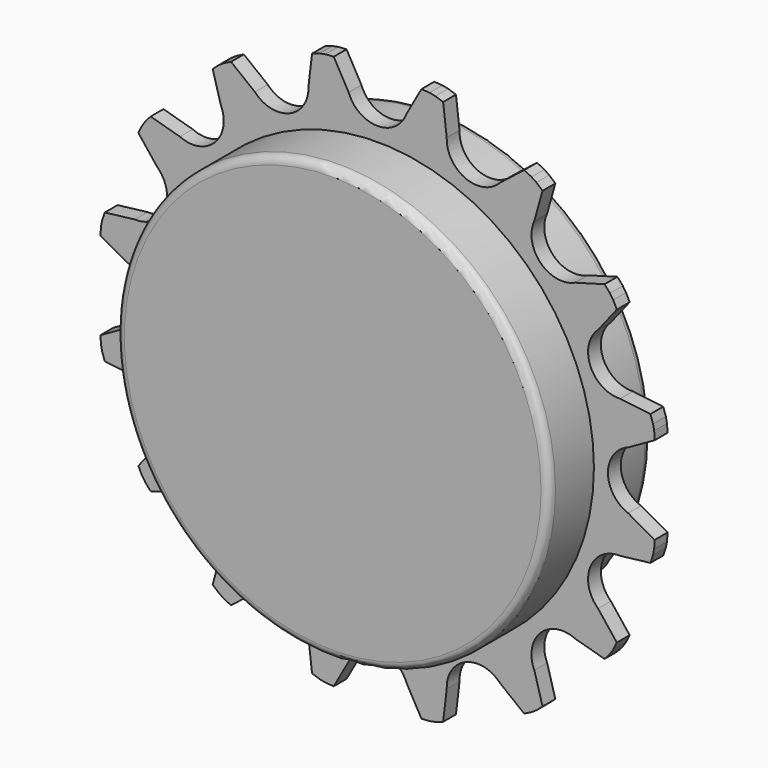
from build123d import *

# Parameters (mm, degrees)
F0_R     = 27
F1_DEPTH = 1
F2_DEPTH = 8
F3_R     = 1


with BuildPart() as f1:
    # F0 (on Front) → F1 (new body, symmetric)
    with BuildSketch(Plane.XZ):
        with BuildLine():
            ThreePointArc((3.6158782374, 31.2779090152), (0, 28.75), (-3.6158782374, 31.2779090152))
            Line((-3.6158782374, 31.2779090152), (-5.4734823617, 34.5852409081))
            ThreePointArc((-5.4734823617, 34.5852409081), (-5.9827680833, 34.5531193631), (-6.4918656711, 34.5181424295))
            Line((-6.4918656711, 34.5181424295), (-7.2118194024, 34.3749347284))
            ThreePointArc((-7.2118194024, 34.3749347284), (-7.6955493369, 34.2124259891), (-8.1783603743, 34.0472072192))
            Line((-8.1783603743, 34.0472072192), (-8.6289016835, 30.2807566538))
            ThreePointArc((-8.6289016835, 30.2807566538), (-11.0021486805, 26.5615365597), (-15.3101734747, 27.513283264))
            Line((-15.3101734747, 27.513283264), (-18.2920370254, 29.8579851848))
            ThreePointArc((-18.2920370254, 29.8579851848), (-18.7502632967, 29.6334135388), (-19.2072230452, 29.4062758535))
            Line((-19.2072230452, 29.4062758535), (-19.8175703473, 28.9984548245))
            ThreePointArc((-19.8175703473, 28.9984548245), (-20.2022891308, 28.6632008947), (-20.5851218804, 28.3257948698))
            Line((-20.5851218804, 28.3257948698), (-19.5600095444, 24.6736335876))
            ThreePointArc((-19.5600095444, 24.6736335876), (-20.3293199591, 20.3293199591), (-24.6736335876, 19.5600095444))
            Line((-24.6736335876, 19.5600095444), (-28.3257948698, 20.5851218804))
            ThreePointArc((-28.3257948698, 20.5851218804), (-28.6632008947, 20.2022891308), (-28.9984548245, 19.8175703473))
            Line((-28.9984548245, 19.8175703473), (-29.4062758535, 19.2072230452))
            ThreePointArc((-29.4062758535, 19.2072230452), (-29.6334135388, 18.7502632967), (-29.8579851848, 18.2920370254))
            Line((-29.8579851848, 18.2920370254), (-27.513283264, 15.3101734747))
            ThreePointArc((-27.513283264, 15.3101734747), (-26.5615365597, 11.0021486805), (-30.2807566538, 8.6289016835))
            Line((-30.2807566538, 8.6289016835), (-34.0472072192, 8.1783603743))
            ThreePointArc((-34.0472072192, 8.1783603743), (-34.2124259891, 7.6955493369), (-34.3749347284, 7.2118194024))
            Line((-34.3749347284, 7.2118194024), (-34.5181424295, 6.4918656711))
            ThreePointArc((-34.5181424295, 6.4918656711), (-34.5531193631, 5.9827680833), (-34.5852409081, 5.4734823617))
            Line((-34.5852409081, 5.4734823617), (-31.2779090152, 3.6158782374))
            ThreePointArc((-31.2779090152, 3.6158782374), (-28.75, 0), (-31.2779090152, -3.6158782374))
            Line((-31.2779090152, -3.6158782374), (-34.5852409081, -5.4734823617))
            ThreePointArc((-34.5852409081, -5.4734823617), (-34.5531193631, -5.9827680833), (-34.5181424295, -6.4918656711))
            Line((-34.5181424295, -6.4918656711), (-34.3749347284, -7.2118194024))
            ThreePointArc((-34.3749347284, -7.2118194024), (-34.2124259891, -7.6955493369), (-34.0472072192, -8.1783603743))
            Line((-34.0472072192, -8.1783603743), (-30.2807566538, -8.6289016835))
            ThreePointArc((-30.2807566538, -8.6289016835), (-26.5615365597, -11.0021486805), (-27.513283264, -15.3101734747))
            Line((-27.513283264, -15.3101734747), (-29.8579851848, -18.2920370254))
            ThreePointArc((-29.8579851848, -18.2920370254), (-29.6334135388, -18.7502632967), (-29.4062758535, -19.2072230452))
            Line((-29.4062758535, -19.2072230452), (-28.9984548245, -19.8175703473))
            ThreePointArc((-28.9984548245, -19.8175703473), (-28.6632008947, -20.2022891308), (-28.3257948698, -20.5851218804))
            Line((-28.3257948698, -20.5851218804), (-24.6736335876, -19.5600095444))
            ThreePointArc((-24.6736335876, -19.5600095444), (-20.3293199591, -20.3293199591), (-19.5600095444, -24.6736335876))
            Line((-19.5600095444, -24.6736335876), (-20.5851218804, -28.3257948698))
            ThreePointArc((-20.5851218804, -28.3257948698), (-20.2022891308, -28.6632008947), (-19.8175703473, -28.9984548245))
            Line((-19.8175703473, -28.9984548245), (-19.2072230452, -29.4062758535))
            ThreePointArc((-19.2072230452, -29.4062758535), (-18.7502632967, -29.6334135388), (-18.2920370254, -29.8579851848))
            Line((-18.2920370254, -29.8579851848), (-15.3101734747, -27.513283264))
            ThreePointArc((-15.3101734747, -27.513283264), (-11.0021486805, -26.5615365597), (-8.6289016835, -30.2807566538))
            Line((-8.6289016835, -30.2807566538), (-8.1783603743, -34.0472072192))
            ThreePointArc((-8.1783603743, -34.0472072192), (-7.6955493369, -34.2124259891), (-7.2118194024, -34.3749347284))
            Line((-7.2118194024, -34.3749347284), (-6.4918656711, -34.5181424295))
            ThreePointArc((-6.4918656711, -34.5181424295), (-5.9827680833, -34.5531193631), (-5.4734823617, -34.5852409081))
            Line((-5.4734823617, -34.5852409081), (-3.6158782374, -31.2779090152))
            ThreePointArc((-3.6158782374, -31.2779090152), (0, -28.75), (3.6158782374, -31.2779090152))
            Line((3.6158782374, -31.2779090152), (5.4734823617, -34.5852409081))
            ThreePointArc((5.4734823617, -34.5852409081), (5.9827680833, -34.5531193631), (6.4918656711, -34.5181424295))
            Line((6.4918656711, -34.5181424295), (7.2118194024, -34.3749347284))
            ThreePointArc((7.2118194024, -34.3749347284), (7.6955493369, -34.2124259891), (8.1783603743, -34.0472072192))
            Line((8.1783603743, -34.0472072192), (8.6289016835, -30.2807566538))
            ThreePointArc((8.6289016835, -30.2807566538), (11.0021486805, -26.5615365597), (15.3101734747, -27.513283264))
            Line((15.3101734747, -27.513283264), (18.2920370254, -29.8579851848))
            ThreePointArc((18.2920370254, -29.8579851848), (18.7502632967, -29.6334135388), (19.2072230452, -29.4062758535))
            Line((19.2072230452, -29.4062758535), (19.8175703473, -28.9984548245))
            ThreePointArc((19.8175703473, -28.9984548245), (20.2022891308, -28.6632008947), (20.5851218804, -28.3257948698))
            Line((20.5851218804, -28.3257948698), (19.5600095444, -24.6736335876))
            ThreePointArc((19.5600095444, -24.6736335876), (20.3293199591, -20.3293199591), (24.6736335876, -19.5600095444))
            Line((24.6736335876, -19.5600095444), (28.3257948698, -20.5851218804))
            ThreePointArc((28.3257948698, -20.5851218804), (28.6632008947, -20.2022891308), (28.9984548245, -19.8175703473))
            Line((28.9984548245, -19.8175703473), (29.4062758535, -19.2072230452))
            ThreePointArc((29.4062758535, -19.2072230452), (29.6334135388, -18.7502632967), (29.8579851848, -18.2920370254))
            Line((29.8579851848, -18.2920370254), (27.513283264, -15.3101734747))
            ThreePointArc((27.513283264, -15.3101734747), (26.5615365597, -11.0021486805), (30.2807566538, -8.6289016835))
            Line((30.2807566538, -8.6289016835), (34.0472072192, -8.1783603743))
            ThreePointArc((34.0472072192, -8.1783603743), (34.2124259891, -7.6955493369), (34.3749347284, -7.2118194024))
            Line((34.3749347284, -7.2118194024), (34.5181424295, -6.4918656711))
            ThreePointArc((34.5181424295, -6.4918656711), (34.5531193631, -5.9827680833), (34.5852409081, -5.4734823617))
            Line((34.5852409081, -5.4734823617), (31.2779090152, -3.6158782374))
            ThreePointArc((31.2779090152, -3.6158782374), (28.75, 0), (31.2779090152, 3.6158782374))
            Line((31.2779090152, 3.6158782374), (34.5852409081, 5.4734823617))
            ThreePointArc((34.5852409081, 5.4734823617), (34.5531193631, 5.9827680833), (34.5181424295, 6.4918656711))
            Line((34.5181424295, 6.4918656711), (34.3749347284, 7.2118194024))
            ThreePointArc((34.3749347284, 7.2118194024), (34.2124259891, 7.6955493369), (34.0472072192, 8.1783603743))
            Line((34.0472072192, 8.1783603743), (30.2807566538, 8.6289016835))
            ThreePointArc((30.2807566538, 8.6289016835), (26.5615365597, 11.0021486805), (27.513283264, 15.3101734747))
            Line((27.513283264, 15.3101734747), (29.8579851848, 18.2920370254))
            ThreePointArc((29.8579851848, 18.2920370254), (29.6334135388, 18.7502632967), (29.4062758535, 19.2072230452))
            Line((29.4062758535, 19.2072230452), (28.9984548245, 19.8175703473))
            ThreePointArc((28.9984548245, 19.8175703473), (28.6632008947, 20.2022891308), (28.3257948698, 20.5851218804))
            Line((28.3257948698, 20.5851218804), (24.6736335876, 19.5600095444))
            ThreePointArc((24.6736335876, 19.5600095444), (20.3293199591, 20.3293199591), (19.5600095444, 24.6736335876))
            Line((19.5600095444, 24.6736335876), (20.5851218804, 28.3257948698))
            ThreePointArc((20.5851218804, 28.3257948698), (20.2022891308, 28.6632008947), (19.8175703473, 28.9984548245))
            Line((19.8175703473, 28.9984548245), (19.2072230452, 29.4062758535))
            ThreePointArc((19.2072230452, 29.4062758535), (18.7502632967, 29.6334135388), (18.2920370254, 29.8579851848))
            Line((18.2920370254, 29.8579851848), (15.3101734747, 27.513283264))
            ThreePointArc((15.3101734747, 27.513283264), (11.0021486805, 26.5615365597), (8.6289016835, 30.2807566538))
            Line((8.6289016835, 30.2807566538), (8.1783603743, 34.0472072192))
            ThreePointArc((8.1783603743, 34.0472072192), (7.6955493369, 34.2124259891), (7.2118194024, 34.3749347284))
            Line((7.2118194024, 34.3749347284), (6.4918656711, 34.5181424295))
            ThreePointArc((6.4918656711, 34.5181424295), (5.9827680833, 34.5531193631), (5.4734823617, 34.5852409081))
            Line((5.4734823617, 34.5852409081), (3.6158782374, 31.2779090152))
        make_face()
        Circle(F0_R, mode=Mode.SUBTRACT)
    extrude(amount=F1_DEPTH, both=True)

    # F0 (on Front) → F2 (join, symmetric)
    with BuildSketch(Plane.XZ):
        Circle(F0_R)
    extrude(amount=F2_DEPTH, both=True)

    # F3
    f3_edges = [f1.edges().sort_by_distance(p)[0] for p in [
        (-27, -8, 0),
        (-27, 8, 0),
    ]]
    fillet(f3_edges, radius=F3_R)


solid = f1.part
